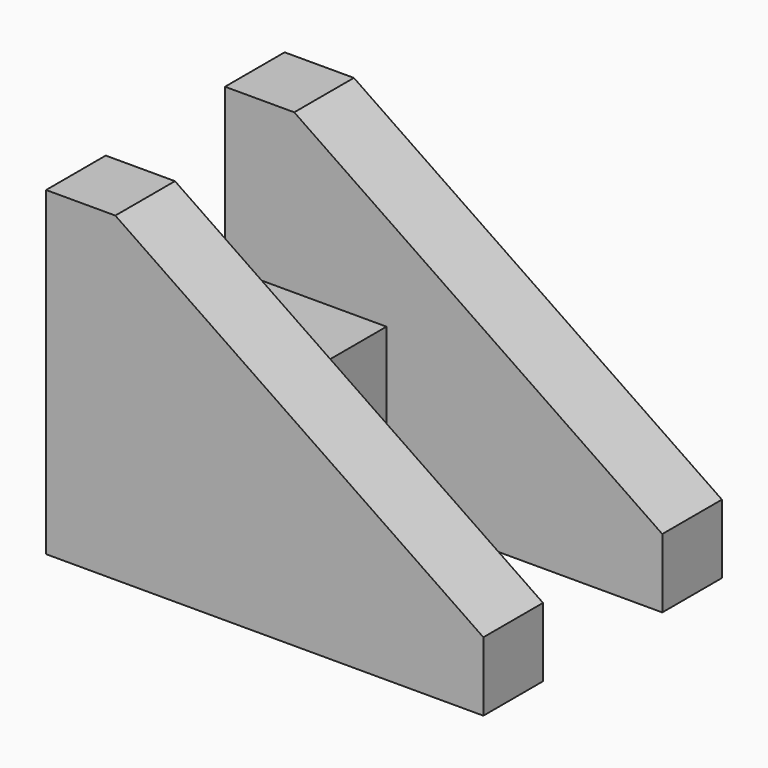
from build123d import *

# Parameters (mm, degrees)
F1_DEPTH = 25.4
F4_W     = 55.0225842744
F4_H     = 55.1656335513
F5_DEPTH = 50.8


with BuildPart() as f1:
    # F0 (on Front) → F1 (new body)
    with BuildSketch(Plane.XZ):
        Polygon((-68.4096906334, 54.0788695137), (-68.4096906334, -55.1656335513), (80.5874373764, -55.1656335513), (80.5874373764, -31.6427350123), (-44.8120329529, 54.0788695137), align=None)
    extrude(amount=F1_DEPTH)


with BuildPart() as f3_1:
    # F3: instance of F1
    add(f1.part.mirror(Plane.XZ.offset(-25.4)))


with BuildPart() as f1_1:
    add(f1.part)

    add(f3_1.part)  # F5 merges F3_1
    # F4 (on face) → F5 (join, through all)
    with BuildSketch(Plane(origin=(0, 0, 0), x_dir=(-1, 0, 0), z_dir=(0, 1, 0))):
        with Locations((40.8983984962, -27.5828167757)):
            Rectangle(F4_W, F4_H)
    extrude(amount=F5_DEPTH)


solid = f1_1.part
